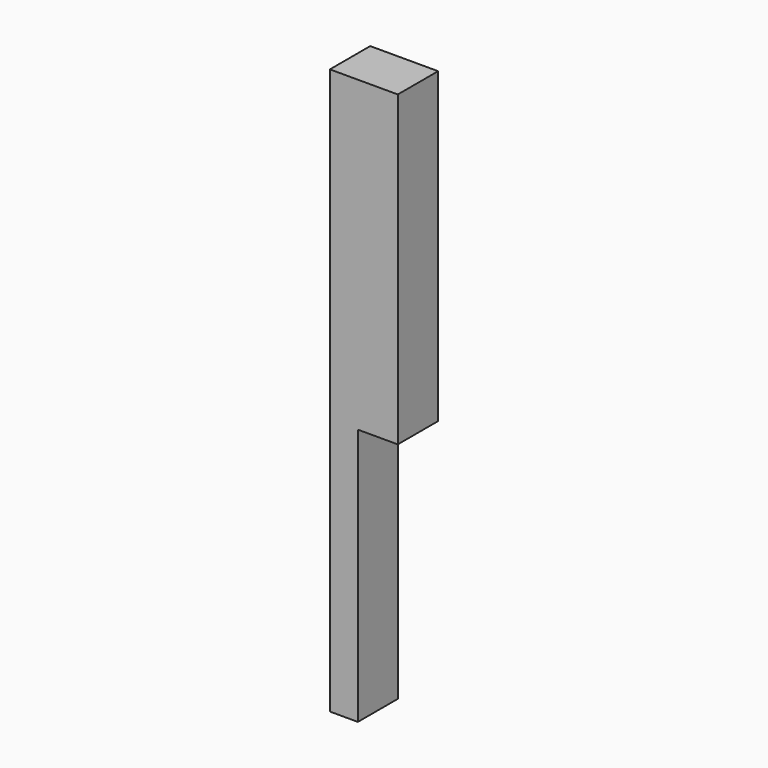
from build123d import *

# Parameters (mm, degrees)
F0_W     = 5
F0_H     = 14.4
F1_DEPTH = 81.5
F2_DEPTH = 8
F3_DEPTH = 80
F4_W     = 8.4
F4_H     = 8.4
F5_DEPTH = 80


with BuildPart() as f1:
    # F0 (on Top) → F1 (new body)
    with BuildSketch(Plane.XY):
        Polygon((-4.2, -4.2), (-4.2, 4.2), (-4.2, 7.2), (-7.2, 7.2), (-7.2, -7.2), (-4.2, -7.2), align=None)
        with Locations((-9.7, 0)):
            Rectangle(F0_W, F0_H)
    extrude(amount=-F1_DEPTH)

    # F0 (on Top) → F2 (join)
    with BuildSketch(Plane.XY):
        Polygon((-4.2, 7.2), (-4.2, 4.2), (4.2, 4.2), (4.2, -4.2), (-4.2, -4.2), (-4.2, -7.2), (7.2, -7.2), (7.2, 7.2), align=None)
    extrude(amount=-F2_DEPTH)

    # F0 (on Top) → F3 (join)
    with BuildSketch(Plane.XY):
        with Locations((-9.7, 0)):
            Rectangle(F0_W, F0_H)
        Polygon((-4.2, -4.2), (-4.2, 4.2), (-4.2, 7.2), (-7.2, 7.2), (-7.2, -7.2), (-4.2, -7.2), align=None)
        Polygon((-4.2, 7.2), (-4.2, 4.2), (4.2, 4.2), (4.2, -4.2), (-4.2, -4.2), (-4.2, -7.2), (7.2, -7.2), (7.2, 7.2), align=None)
    extrude(amount=F3_DEPTH)

    # F4 (on face) → F5 (join)
    with BuildSketch(Plane.XY.offset(80)):
        Rectangle(F4_W, F4_H)
    extrude(amount=-F5_DEPTH)


solid = f1.part
